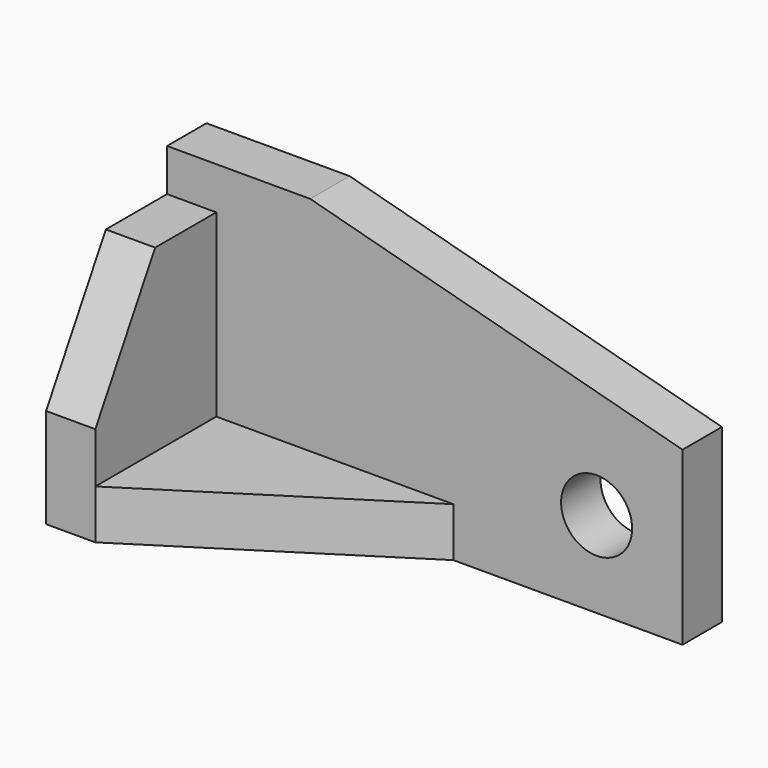
from build123d import *

# Parameters (mm, degrees)
F0_R     = 7.874
F1_DEPTH = 10.922
F3_DEPTH = 10.922
F5_DEPTH = 10.922


with BuildPart() as f1:
    # F0 (on Front) → F1 (new body)
    with BuildSketch(Plane.XZ):
        Polygon((-27.475664, 22.119206), (-59.225664, 22.119206), (-59.225664, -38.078794), (55.074336, -38.078794), (55.074336, 0), align=None)
        with Locations((36.024336, -19.028794)):
            Circle(F0_R, mode=Mode.SUBTRACT)
    extrude(amount=F1_DEPTH)

    # F2 (on face) → F3 (join)
    with BuildSketch(Plane(origin=(0, 0, -38.078794), x_dir=(1, 0, 0), z_dir=(0, 0, -1))):
        Polygon((-59.225664, 44.45), (-59.225664, 10.922), (4.274336, 10.922), (-48.303664, 44.45), align=None)
    extrude(amount=-F3_DEPTH)

    # F4 (on face) → F5 (join)
    with BuildSketch(Plane(origin=(-59.225664, 0, 0), x_dir=(0, -1, 0), z_dir=(-1, 0, 0))):
        Polygon((27.878893, 12.721206), (10.922, 12.721206), (10.922, -27.156794), (44.45, -27.156794), (44.45, -15.980794), align=None)
    extrude(amount=-F5_DEPTH)


solid = f1.part
